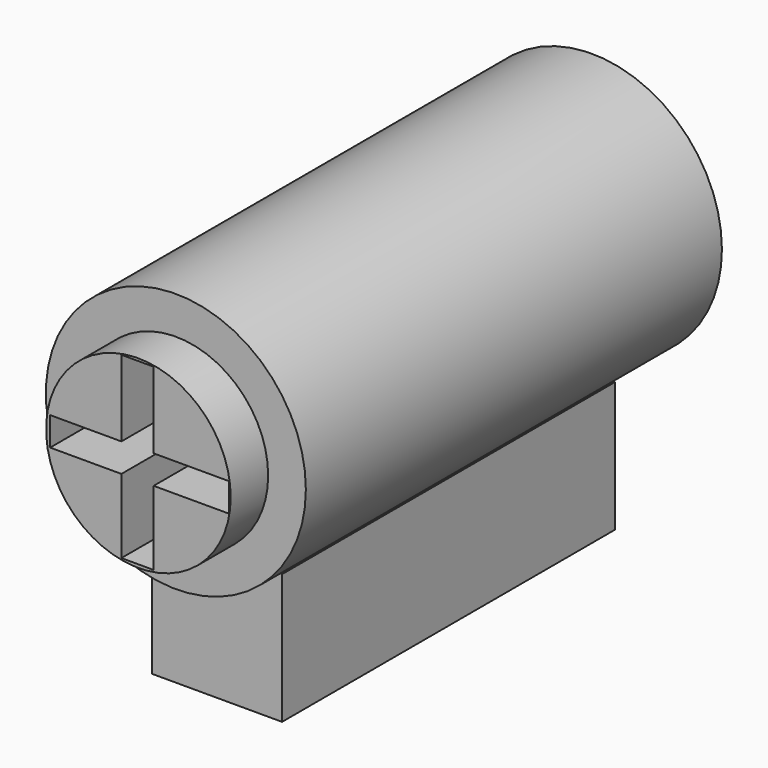
from build123d import *

# Parameters (mm, degrees)
F0_R      = 6.35
F1_DEPTH  = 12.7
F2_W      = 20.32
F2_H      = 6.35
F3_DEPTH  = 3.175
F4_W      = 1.5748
F4_H      = 6.169682
F5_DEPTH  = 40.132
F6_R      = 4.5085
F7_DEPTH  = 14.986
F8_W      = 8.7376
F8_H      = 1.397
F9_DEPTH  = 22.86
F10_W     = 1.5748
F10_H     = 8.7376
F11_DEPTH = 37.084


with BuildPart() as f1:
    # F0 (on Front) → F1 (new body, symmetric)
    with BuildSketch(Plane.XZ):
        Circle(F0_R)
    extrude(amount=F1_DEPTH, both=True)

    # F2 (on Right) → F3 (join, symmetric)
    with BuildSketch(Plane.YZ):
        with Locations((-0.024871, -8.870569)):
            Rectangle(F2_W, F2_H)
    extrude(amount=F3_DEPTH, both=True)

    # F4 (on Front) → F5 (cut)
    with BuildSketch(Plane.XZ):
        with Locations((0.7874, -3.084841)):
            Rectangle(F4_W, F4_H)
    extrude(amount=-F5_DEPTH, mode=Mode.SUBTRACT)

    # F6 (on Front) → F7 (join)
    with BuildSketch(Plane.XZ):
        Circle(F6_R)
    extrude(amount=F7_DEPTH)

    # F8 (on Front) → F9 (cut)
    with BuildSketch(Plane.XZ):
        with Locations((0.058195, -0.036068)):
            Rectangle(F8_W, F8_H)
    extrude(amount=F9_DEPTH, mode=Mode.SUBTRACT)

    # F10 (on Front) → F11 (cut)
    with BuildSketch(Plane.XZ):
        with Locations((-0.043064, 0.016989)):
            Rectangle(F10_W, F10_H)
    extrude(amount=F11_DEPTH, mode=Mode.SUBTRACT)


solid = f1.part
